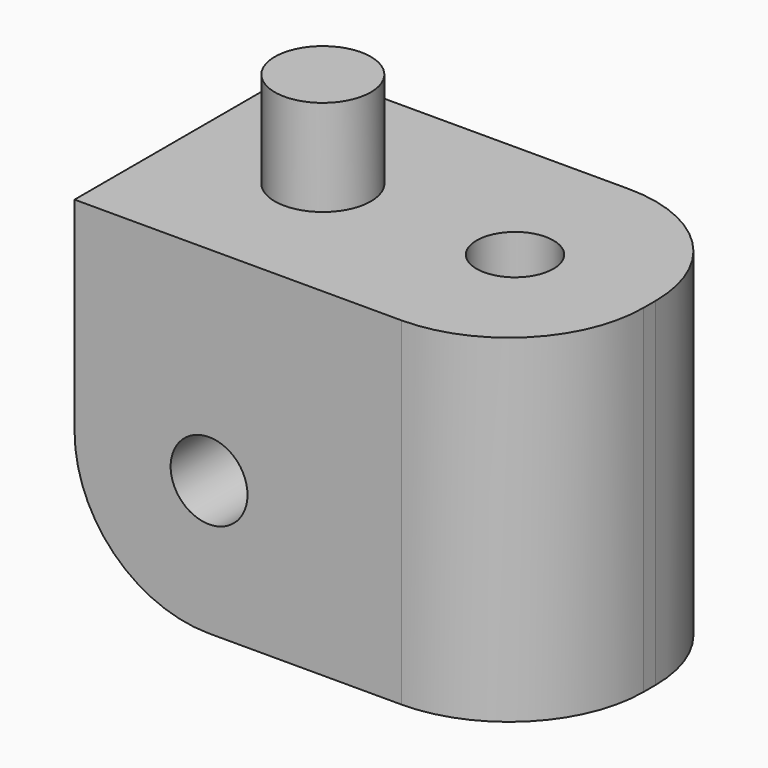
from build123d import *

# Parameters (mm, degrees)
F0_W     = 12
F0_H     = 7.4
F1_DEPTH = 8.8
F2_R     = 1
F3_DEPTH = 25
F4_R     = 3.5
F5_R     = 3.5
F6_R     = 1.25
F7_DEPTH = 2.5
F6_R_2   = 1
F8_DEPTH = 25


with BuildPart() as f1:
    # F0 (on Top) → F1 (new body)
    with BuildSketch(Plane.XY):
        with Locations((6, 3.7)):
            Rectangle(F0_W, F0_H)
    extrude(amount=F1_DEPTH)

    # F2 (on face) → F3 (cut)
    with BuildSketch(Plane.XZ):
        with Locations((3.5, 3.5)):
            Circle(F2_R)
    extrude(amount=-F3_DEPTH, mode=Mode.SUBTRACT)

    # F4
    f4_edges = [f1.edges().sort_by_distance(p)[0] for p in [
        (0, 3.7, 0),
    ]]
    fillet(f4_edges, radius=F4_R)

    # F5
    f5_edges = [f1.edges().sort_by_distance(p)[0] for p in [
        (12, 0, 4.4),
        (12, 7.4, 4.4),
    ]]
    fillet(f5_edges, radius=F5_R)

    # F6 (on face) → F7 (join)
    with BuildSketch(Plane.XY.offset(8.8)):
        with Locations((3.5, 3.7)):
            Circle(F6_R)
    extrude(amount=F7_DEPTH)

    # F6 (on face) → F8 (cut)
    with BuildSketch(Plane.XY.offset(8.8)):
        with Locations((8.5, 3.7)):
            Circle(F6_R_2)
    extrude(amount=-F8_DEPTH, mode=Mode.SUBTRACT)


solid = f1.part
